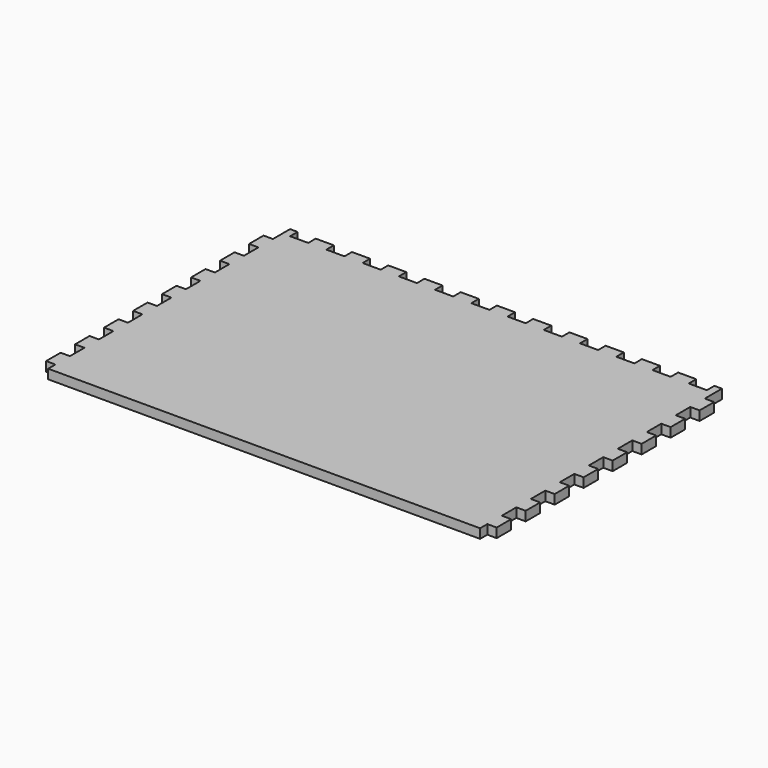
from build123d import *

# Parameters (mm, degrees)
F0_W     = 286
F0_H     = 220
F1_DEPTH = 6.2
F2_W     = 5
F2_H     = 6.2
F2_W_2   = 12
F3_DEPTH = 6.2
F4_W     = 6.2
F4_H     = 12
F5_DEPTH = 6.2
F6_W     = 329.66836555
F6_H     = 26
F7_DEPTH = 6.201


with BuildPart() as f1:
    # F0 (on Top) → F1 (new body)
    with BuildSketch(Plane.XY):
        Rectangle(F0_W, F0_H)
    extrude(amount=F1_DEPTH)

    # F2 (on face) → F3 (join, through all)
    with BuildSketch(Plane.XY.offset(6.2)):
        with Locations((140.5, 113.1)):
            Rectangle(F2_W, F2_H)
        with Locations((120, 113.1)):
            Rectangle(F2_W_2, F2_H)
        with Locations((96, 113.1)):
            Rectangle(F2_W_2, F2_H)
        with Locations((72, 113.1)):
            Rectangle(F2_W_2, F2_H)
        with Locations((48, 113.1)):
            Rectangle(F2_W_2, F2_H)
        with Locations((24, 113.1)):
            Rectangle(F2_W_2, F2_H)
        with Locations((0, 113.1)):
            Rectangle(F2_W_2, F2_H)
        with Locations((-24, 113.1)):
            Rectangle(F2_W_2, F2_H)
        with Locations((-48, 113.1)):
            Rectangle(F2_W_2, F2_H)
        with Locations((-72, 113.1)):
            Rectangle(F2_W_2, F2_H)
        with Locations((-96, 113.1)):
            Rectangle(F2_W_2, F2_H)
        with Locations((-120, 113.1)):
            Rectangle(F2_W_2, F2_H)
        with Locations((-140.5, 113.1)):
            Rectangle(F2_W, F2_H)
    extrude(amount=-F3_DEPTH)

    # F4 (on face) → F5 (join, through all)
    with BuildSketch(Plane.XY.offset(6.2)):
        with Locations((146.1, -96)):
            Rectangle(F4_W, F4_H)
        with Locations((146.1, -72)):
            Rectangle(F4_W, F4_H)
        with Locations((146.1, -48)):
            Rectangle(F4_W, F4_H)
        with Locations((146.1, -24)):
            Rectangle(F4_W, F4_H)
        with Locations((146.1, 0)):
            Rectangle(F4_W, F4_H)
        with Locations((146.1, 24)):
            Rectangle(F4_W, F4_H)
        with Locations((146.1, 48)):
            Rectangle(F4_W, F4_H)
        with Locations((146.1, 72)):
            Rectangle(F4_W, F4_H)
        with Locations((146.1, 96)):
            Rectangle(F4_W, F4_H)
        with Locations((-146.1, 96)):
            Rectangle(F4_W, F4_H)
        with Locations((-146.1, 72)):
            Rectangle(F4_W, F4_H)
        with Locations((-146.1, 48)):
            Rectangle(F4_W, F4_H)
        with Locations((-146.1, 24)):
            Rectangle(F4_W, F4_H)
        with Locations((-146.1, 0)):
            Rectangle(F4_W, F4_H)
        with Locations((-146.1, -24)):
            Rectangle(F4_W, F4_H)
        with Locations((-146.1, -48)):
            Rectangle(F4_W, F4_H)
        with Locations((-146.1, -72)):
            Rectangle(F4_W, F4_H)
        with Locations((-146.1, -96)):
            Rectangle(F4_W, F4_H)
    extrude(amount=-F5_DEPTH)

    # F6 (on face) → F7 (cut, through all)
    with BuildSketch(Plane.XY.offset(6.2)):
        with Locations((15.634182775, -97)):
            Rectangle(F6_W, F6_H)
    extrude(amount=-F7_DEPTH, mode=Mode.SUBTRACT)


solid = f1.part
